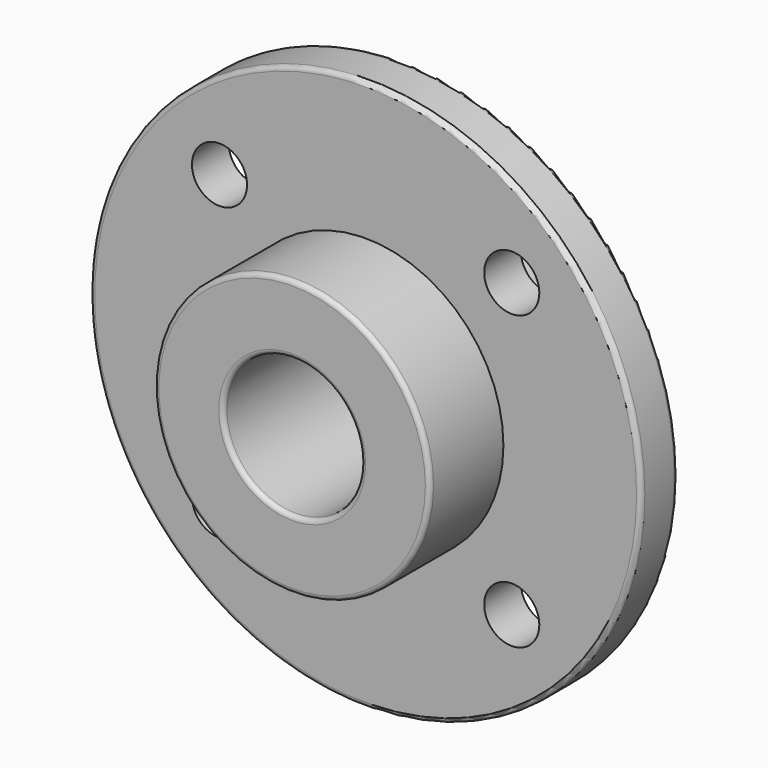
from build123d import *

# Parameters (mm, degrees)
F0_R     = 12
F0_R_2   = 1.2
F0_R_3   = 6
F1_DEPTH = 2
F0_R_4   = 3
F2_DEPTH = 6
F3_DEPTH = 3
F4_R     = 0.2


with BuildPart() as f1:
    # F0 (on Front) → F1 (new body)
    with BuildSketch(Plane.XZ):
        Circle(F0_R)
        with Locations((-6.363961, -6.363961)):
            Circle(F0_R_2, mode=Mode.SUBTRACT)
        with Locations((6.363961, -6.363961)):
            Circle(F0_R_2, mode=Mode.SUBTRACT)
        with Locations((-6.363961, 6.363961)):
            Circle(F0_R_2, mode=Mode.SUBTRACT)
        Circle(F0_R_3, mode=Mode.SUBTRACT)
        with Locations((6.363961, 6.363961)):
            Circle(F0_R_2, mode=Mode.SUBTRACT)
    extrude(amount=F1_DEPTH)

    # F0 (on Front) → F2 (join)
    with BuildSketch(Plane.XZ):
        Circle(F0_R_3)
        Circle(F0_R_4, mode=Mode.SUBTRACT)
    extrude(amount=F2_DEPTH)

    # F0 (on Front) → F3 (join)
    with BuildSketch(Plane.XZ):
        Circle(F0_R_3)
        Circle(F0_R_4, mode=Mode.SUBTRACT)
    extrude(amount=-F3_DEPTH)

    # F4
    f4_edges = [f1.edges().sort_by_distance(p)[0] for p in [
        (-6, -6, 0),
        (-3, -6, 0),
        (-12, -2, 0),
        (-12, 0, 0),
        (-6, 3, 0),
        (-3, 3, 0),
    ]]
    fillet(f4_edges, radius=F4_R)


solid = f1.part
